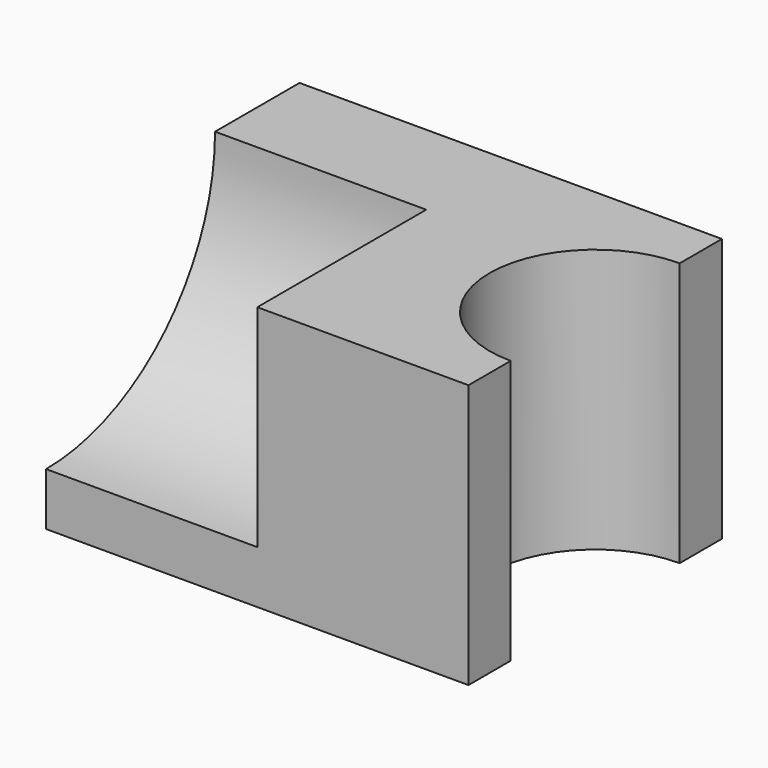
from build123d import *

# Parameters (mm, degrees)
F0_W     = 101.6
F0_H     = 76.2
F1_DEPTH = 63.5
F3_DEPTH = 63.501
F5_DEPTH = 50.8


with BuildPart() as f1:
    # F0 (on Top) → F1 (new body)
    with BuildSketch(Plane.XY):
        with Locations((6.047102, 5.551062)):
            Rectangle(F0_W, F0_H)
    extrude(amount=F1_DEPTH)

    # F2 (on face) → F3 (cut, through all)
    with BuildSketch(Plane.XY.offset(63.5)):
        with BuildLine():
            Line((56.847102, -19.848938), (56.847102, 30.951062))
            ThreePointArc((56.847102, 30.951062), (31.447102, 5.551062), (56.847102, -19.848938))
        make_face()
    extrude(amount=-F3_DEPTH, mode=Mode.SUBTRACT)

    # F4 (on face) → F5 (cut)
    with BuildSketch(Plane(origin=(-44.752898, 0, 0), x_dir=(0, -1, 0), z_dir=(-1, 0, 0))):
        with BuildLine():
            Line((32.548938, 63.5), (-18.251062, 63.5))
            ThreePointArc((-18.251062, 63.5), (-3.372086, 27.578976), (32.548938, 12.7))
            Line((32.548938, 12.7), (32.548938, 63.5))
        make_face()
    extrude(amount=-F5_DEPTH, mode=Mode.SUBTRACT)


solid = f1.part
